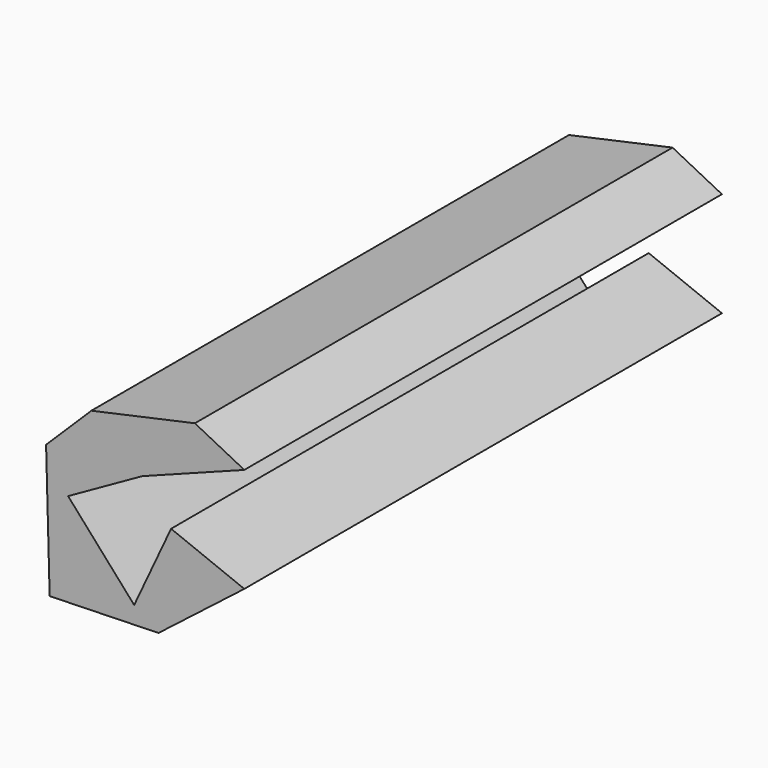
from build123d import *

# Parameters (mm, degrees)
F1_DEPTH = 184.912


with BuildPart() as f1:
    # F0 (on Front) → F1 (new body)
    with BuildSketch(Plane.XZ):
        Polygon((-15.762338, 60.376208), (-29.773306, 46.5496), (-28.667178, 5.622823), (5.045133, 6.533965), (31.616855, 27.192339), (8.941209, 36.225729), (-2.48879, 11.706533), (-22.952178, 34.750886), (0, 47.655728), (31.616855, 59.638795), (16.315402, 67.381695), align=None)
    extrude(amount=-F1_DEPTH)


solid = f1.part
